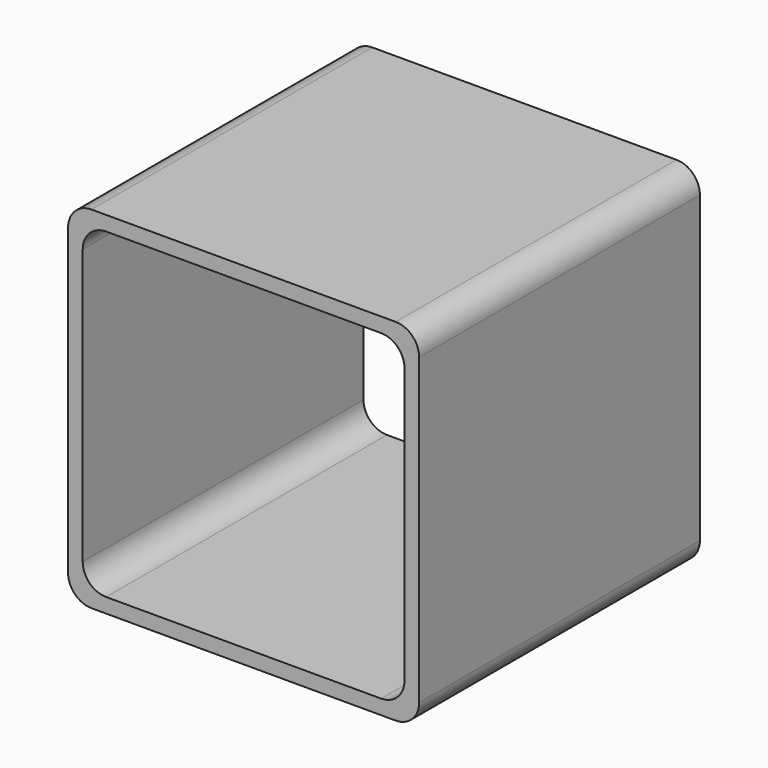
from build123d import *

# Parameters (mm, degrees)
F0_W     = 76.2
F0_H     = 76.2
F1_DEPTH = 76.2
F2_T     = -3.175
F3_R     = 5.08


with BuildPart() as f1:
    # F0 (on Front) → F1 (new body)
    with BuildSketch(Plane.XZ):
        with Locations((7.068123761, -2.0512547344)):
            Rectangle(F0_W, F0_H)
    extrude(amount=F1_DEPTH)

    # F2
    f2_openings = [f1.faces().sort_by_distance(p)[0] for p in [
        (7.068124, -76.2, -2.051255),
        (7.068124, 0, -2.051255),
    ]]
    offset(amount=F2_T, openings=f2_openings)

    # F3
    f3_edges = [f1.edges().sort_by_distance(p)[0] for p in [
        (-27.856876, -38.1, 32.873745),
        (41.993124, -38.1, -36.976255),
        (41.993124, -38.1, 32.873745),
        (-31.031876, -38.1, -40.151255),
        (45.168124, -38.1, -40.151255),
        (45.168124, -38.1, 36.048745),
        (-31.031876, -38.1, 36.048745),
        (-27.856876, -38.1, -36.976255),
    ]]
    fillet(f3_edges, radius=F3_R)


solid = f1.part
